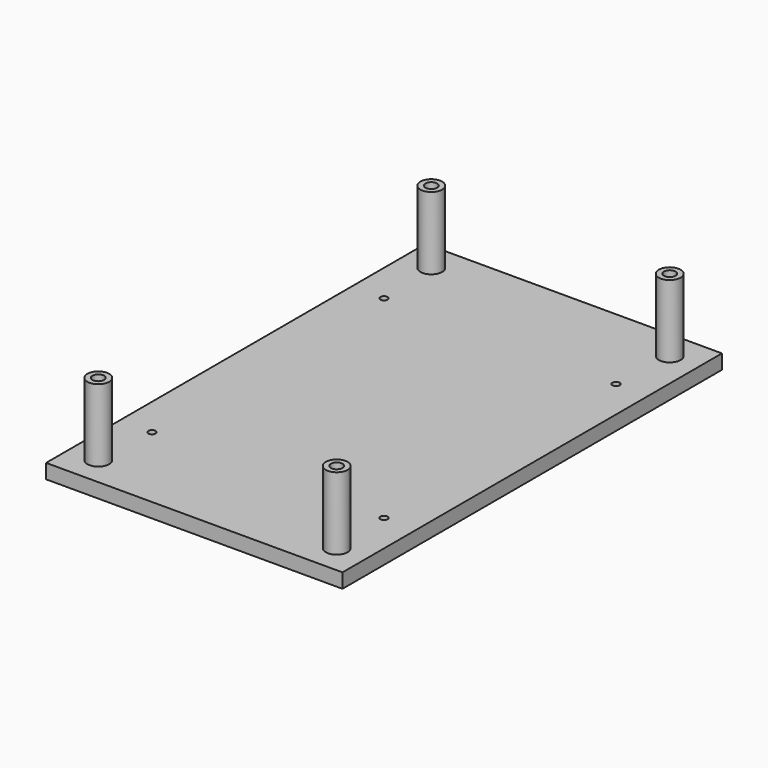
from build123d import *

# Parameters (mm, degrees)
F0_W     = 129.794
F0_H     = 207.6704
F0_R     = 2.5527
F0_R_2   = 1.5875
F1_DEPTH = 6.35
F2_R     = 4.7625
F2_R_2   = 2.5527
F3_DEPTH = 31.75


with BuildPart() as f1:
    # F0 (on Top) → F1 (new body)
    with BuildSketch(Plane.XY):
        Rectangle(F0_W, F0_H)
        with Locations((-52.197, -91.1352)):
            Circle(F0_R, mode=Mode.SUBTRACT)
        with Locations((-50.8, -63.5)):
            Circle(F0_R_2, mode=Mode.SUBTRACT)
        with Locations((52.197, -91.1352)):
            Circle(F0_R, mode=Mode.SUBTRACT)
        with Locations((50.8, -63.5)):
            Circle(F0_R_2, mode=Mode.SUBTRACT)
        with Locations((-50.8, 63.5)):
            Circle(F0_R_2, mode=Mode.SUBTRACT)
        with Locations((-52.197, 91.1352)):
            Circle(F0_R, mode=Mode.SUBTRACT)
        with Locations((50.8, 63.5)):
            Circle(F0_R_2, mode=Mode.SUBTRACT)
        with Locations((52.197, 91.1352)):
            Circle(F0_R, mode=Mode.SUBTRACT)
    extrude(amount=F1_DEPTH)

    # F2 (on face) → F3 (join)
    with BuildSketch(Plane.XY.offset(6.35)):
        with Locations((-52.197, 91.1352)):
            Circle(F2_R)
        with Locations((-52.197, 91.1352)):
            Circle(F2_R_2, mode=Mode.SUBTRACT)
        with Locations((52.197, 91.1352)):
            Circle(F2_R)
        with Locations((52.197, 91.1352)):
            Circle(F2_R_2, mode=Mode.SUBTRACT)
        with Locations((52.197, -91.1352)):
            Circle(F2_R)
        with Locations((52.197, -91.1352)):
            Circle(F2_R_2, mode=Mode.SUBTRACT)
        with Locations((-52.197, -91.1352)):
            Circle(F2_R)
        with Locations((-52.197, -91.1352)):
            Circle(F2_R_2, mode=Mode.SUBTRACT)
    extrude(amount=F3_DEPTH)


solid = f1.part
